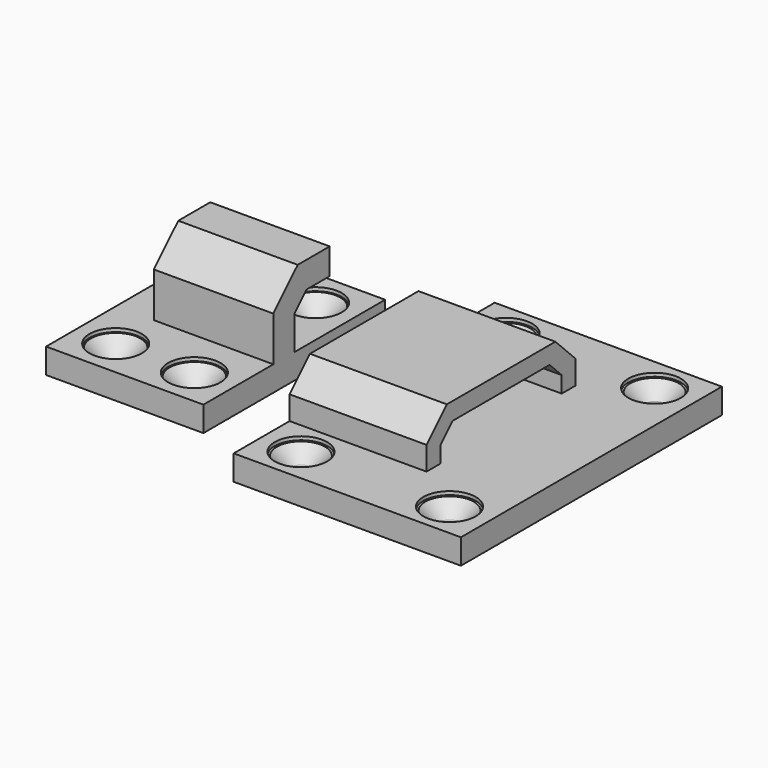
from build123d import *

# Parameters (mm, degrees)
SKETCH_W                      = 39
SKETCH_H                      = 56
PAD_DEPTH                     = 3.7
PAD001_DEPTH                  = 15
PAD001_DEPTH_BACK             = -8.5
SKETCH003_R                   = 1.25
POCKET_DEPTH                  = 142.528807
SKETCH003_MIRRORED_2_R        = 1.25
POCKET_MIRRORED_2_DEPTH       = 142.528807
CHAMFER_SIZE                  = 2.9
SKETCH008_R                   = 4.5
PAD004_DEPTH                  = 0.6
FILLET_R                      = 1.9
SKETCH010_W                   = 27
SKETCH010_H                   = 39
PAD005_DEPTH                  = 3.7
PAD006_DEPTH                  = 13.5
PAD006_DEPTH_BACK             = -7
SKETCH012_R                   = 1.25
POCKET001_DEPTH               = 104.613635
SKETCH012_MIRRORED002_2_R     = 1.25
POCKET001_MIRRORED002_2_DEPTH = 104.613635
CHAMFER001_SIZE               = 3
SKETCH013_R                   = 4.5
PAD007_DEPTH                  = 0.6


with BuildPart() as body:
    # Sketch → Pad (new body)
    with BuildSketch(Plane.XY):
        Rectangle(SKETCH_W, SKETCH_H)
    extrude(amount=PAD_DEPTH)

    # Sketch002 (on DatumPlane) → Pad001 (join, two sides)
    with BuildSketch(Plane(origin=(-11, 0, 3.7), x_dir=(0, -1, 0), z_dir=(-1, 0, 0))) as pad001_sk:
        Polygon((-16, 0), (-16, 4.642641), (-11.642641, 9), (11.642641, 9), (16, 4.642641), (16, 0), (13, 0), (13, 3.4), (10.4, 6), (-10.4, 6), (-13, 3.4), (-13, 0), align=None)
    extrude(amount=-PAD001_DEPTH)
    extrude(pad001_sk.sketch, amount=-PAD001_DEPTH_BACK)

    # Sketch003 (on Face4 of Pad001) → Pocket (cut, through all)
    with BuildSketch(Plane.XY.offset(3.7)):
        with Locations((-12.75, -22)):
            Circle(SKETCH003_R)
    pocket = extrude(amount=-POCKET_DEPTH, mode=Mode.SUBTRACT)

    # Sketch003 Mirrored 2 → Pocket Mirrored 2 (cut, through all)
    with BuildSketch(Plane(origin=(0, 0, 3.7), x_dir=(-1, 0, 0), z_dir=(0, 0, -1))):
        with Locations((-12.75, -22)):
            Circle(SKETCH003_MIRRORED_2_R)
    pocket_mirrored_2 = extrude(amount=POCKET_MIRRORED_2_DEPTH, mode=Mode.SUBTRACT)

    # Mirrored001: Pocket, Pocket Mirrored 2 across Sketch003 H_Axis
    add(pocket.mirror(Plane(origin=(0, 0, 3.7), x_dir=(0, 0, 1), z_dir=(0, 1, 0))), mode=Mode.SUBTRACT)
    add(pocket_mirrored_2.mirror(Plane(origin=(0, 0, 3.7), x_dir=(0, 0, 1), z_dir=(0, 1, 0))), mode=Mode.SUBTRACT)

    # Chamfer
    chamfer_edges = [body.edges().sort_by_distance(p)[0] for p in [
        (-14, 22, 3.7),
        (14, 22, 3.7),
        (14, -22, 3.7),
        (-14, -22, 3.7),
    ]]
    chamfer(chamfer_edges, length=CHAMFER_SIZE)

    # Sketch008 (on Face1 of Chamfer) → Pad004 (join)
    with BuildSketch(Plane.XY.offset(3.7)):
        Polygon((-19.5, 16), (-19.5, 28), (19.5, 28), (19.5, -28), (-19.5, -28), (-19.5, -16), (4, -16), (4, -13), (-19.5, -13), (-19.5, 13), (4, 13), (4, 16), align=None)
        with Locations((-12.75, -22)):
            Circle(SKETCH008_R, mode=Mode.SUBTRACT)
        with Locations((12.75, -22)):
            Circle(SKETCH008_R, mode=Mode.SUBTRACT)
        with Locations((12.75, 22)):
            Circle(SKETCH008_R, mode=Mode.SUBTRACT)
        with Locations((-12.75, 22)):
            Circle(SKETCH008_R, mode=Mode.SUBTRACT)
    extrude(amount=PAD004_DEPTH)

    # Fillet
    fillet_edges = [body.edges().sort_by_distance(p)[0] for p in [
        (14, -22, 0.8),
        (-14, -22, 0.8),
        (-14, 22, 0.8),
        (14, 22, 0.8),
    ]]
    fillet(fillet_edges, radius=FILLET_R)


with BuildPart() as body001:
    # Sketch010 → Pad005 (new body)
    with BuildSketch(Plane.XY):
        Rectangle(SKETCH010_W, SKETCH010_H)
    extrude(amount=PAD005_DEPTH)

    # Sketch011 (on DatumPlane) → Pad006 (join, two sides)
    with BuildSketch(Plane(origin=(0, 0, 3.7), x_dir=(0, -1, 0), z_dir=(-1, 0, 0))) as pad006_sk:
        Polygon((-0.736039, 13.5), (4.5, 8.263961), (4.5, 0), (0, 0), (0, 6.4), (-2.6, 9), (-7.6, 9), (-7.6, 13.5), align=None)
    extrude(amount=-PAD006_DEPTH)
    extrude(pad006_sk.sketch, amount=-PAD006_DEPTH_BACK)

    # Sketch012 (on Face5 of Pad006) → Pocket001 (cut, through all)
    with BuildSketch(Plane.XY.offset(3.7)):
        with Locations((-6.75, -13)):
            Circle(SKETCH012_R)
    pocket001 = extrude(amount=-POCKET001_DEPTH, mode=Mode.SUBTRACT)

    # Sketch012 Mirrored002 2 → Pocket001 Mirrored002 2 (cut, through all)
    with BuildSketch(Plane(origin=(0, 0, 3.7), x_dir=(-1, 0, 0), z_dir=(0, 0, -1))):
        with Locations((-6.75, -13)):
            Circle(SKETCH012_MIRRORED002_2_R)
    pocket001_mirrored002_2 = extrude(amount=POCKET001_MIRRORED002_2_DEPTH, mode=Mode.SUBTRACT)

    # Mirrored003: Pocket001, Pocket001 Mirrored002 2 across Sketch012 H_Axis
    add(pocket001.mirror(Plane(origin=(0, 0, 3.7), x_dir=(0, 0, 1), z_dir=(0, 1, 0))), mode=Mode.SUBTRACT)
    add(pocket001_mirrored002_2.mirror(Plane(origin=(0, 0, 3.7), x_dir=(0, 0, 1), z_dir=(0, 1, 0))), mode=Mode.SUBTRACT)

    # Chamfer001
    chamfer001_edges = [body001.edges().sort_by_distance(p)[0] for p in [
        (-8, 13, 3.7),
        (8, 13, 3.7),
        (8, -13, 3.7),
        (-8, -13, 3.7),
    ]]
    chamfer(chamfer001_edges, length=CHAMFER001_SIZE)

    # Sketch013 (on Face1 of Chamfer001) → Pad007 (join)
    with BuildSketch(Plane.XY.offset(3.7)):
        Polygon((-13.5, 19.5), (13.5, 19.5), (13.5, -19.5), (-13.5, -19.5), (-13.5, -4.069434), (-13.5, 0.430566), align=None)
        with Locations((-6.75, -13)):
            Circle(SKETCH013_R, mode=Mode.SUBTRACT)
        with Locations((6.75, -13)):
            Circle(SKETCH013_R, mode=Mode.SUBTRACT)
        with Locations((6.75, 13)):
            Circle(SKETCH013_R, mode=Mode.SUBTRACT)
        with Locations((-6.75, 13)):
            Circle(SKETCH013_R, mode=Mode.SUBTRACT)
    extrude(amount=PAD007_DEPTH)


with BuildPart() as body001_1:
    # Body001 placement: moved
    add(body001.part.moved(Location((-45, 0, 0))))


solid = Compound([body.part, body001_1.part])
